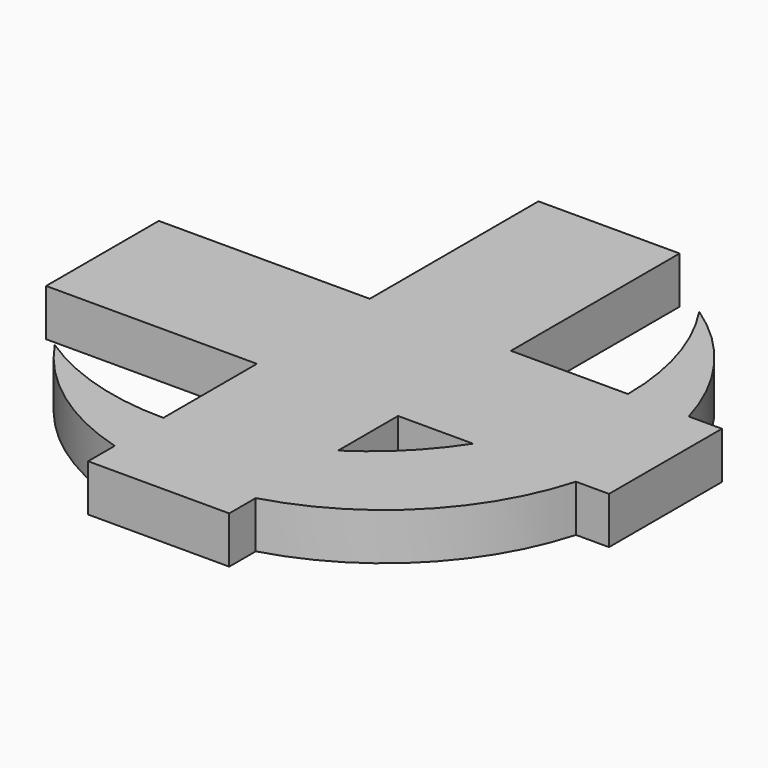
from build123d import *

# Parameters (mm, degrees)
F1_DEPTH = 9.525


with BuildPart() as f1:
    # F0 (on Top) → F1 (new body)
    with BuildSketch(Plane.XY):
        with BuildLine():
            ThreePointArc((-21.264499, -28.660992), (-36.472978, -26.406095), (-50.372925, -19.835413))
            ThreePointArc((-50.372925, -19.835413), (-37.692308, -32.991899), (-21.264499, -40.993041))
            Line((-21.264499, -40.993041), (-21.264499, -47.747492))
            Line((-21.264499, -47.747492), (7.390787, -47.747492))
            Line((7.390787, -47.747492), (7.390787, -41.019611))
            ThreePointArc((7.390787, -41.019611), (30.151885, -27.661847), (43.512857, -4.902632))
            Line((43.512857, -4.902632), (50.226257, -4.902632))
            Line((50.226257, -4.902632), (50.226257, 23.754346))
            Line((50.226257, 23.754346), (43.489843, 23.754346))
            ThreePointArc((43.489843, 23.754346), (35.483013, 40.193269), (22.314296, 52.879184))
            ThreePointArc((22.314296, 52.879184), (28.893077, 38.972268), (31.150838, 23.754346))
            Line((31.150838, 23.754346), (7.390787, 23.754346))
            Line((7.390787, 23.754346), (7.390787, 66.552508))
            Line((7.390787, 66.552508), (-21.264499, 66.552508))
            Line((-21.264499, 66.552508), (-21.241715, 23.707046))
            Line((-21.241715, 23.707046), (-64.073743, 23.707046))
            Line((-64.073743, 23.707046), (-64.073743, -4.902632))
            Line((-64.073743, -4.902632), (-21.264499, -4.902632))
            Line((-21.264499, -4.902632), (-21.264499, -28.660992))
        make_face()
        with BuildLine():
            Line((7.390787, -20.13463), (7.390787, -4.902632))
            Line((7.390787, -4.902632), (22.623372, -4.902632))
            ThreePointArc((22.623372, -4.902632), (15.798027, -13.309609), (7.390787, -20.13463))
        make_face(mode=Mode.SUBTRACT)
    extrude(amount=F1_DEPTH)


solid = f1.part
